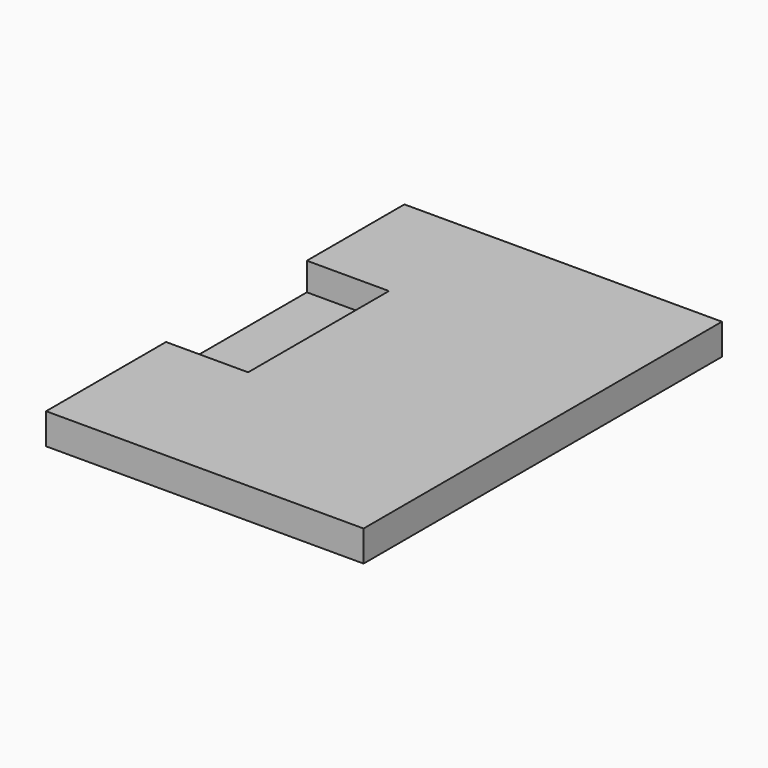
from build123d import *

# Parameters (mm, degrees)
F2_DEPTH = 9.144
F0_W     = 104.3482013047
F0_H     = 147.1950858831
F3_DEPTH = 1.016
F5_DEPTH = 8.128


with BuildPart() as f2:
    # F1 (on face) → F2 (new body)
    with BuildSketch(Plane.XY):
        Polygon((-44.0127886832, 33.2340672612), (-17.0306321234, 33.2340672612), (-17.0306321234, -24.6169902384), (-44.0127886832, -24.6169902384), (-44.0127886832, -73.8890171051), (60.3354126215, -73.8890171051), (60.3354126215, 73.306068778), (-44.0127886832, 73.306068778), align=None)
        Polygon((33.4283486009, -24.867111817), (33.4283486009, 33.2340672612), (59.7827173769, 33.2340672612), (60.2132864296, -24.867111817), align=None, mode=Mode.SUBTRACT)
    extrude(amount=F2_DEPTH)

    # F0 (on Top) + F2_face (on face) → F3 (join)
    with BuildSketch(Plane.XY):
        with Locations((8.1613119692, -0.2914741635)):
            Rectangle(F0_W, F0_H)
    with BuildSketch(Plane(origin=(8.2321469679, -1.4312137142, 9.144), x_dir=(1, 0, 0), z_dir=(0, 0, 1))):
        Polygon((-52.2449356511, 34.6652809755), (-25.2627790912, 34.6652809755), (-25.2627790912, -23.1857765242), (-52.2449356511, -23.1857765242), (-52.2449356511, -72.4578033909), (52.1032656536, -72.4578033909), (52.1032656536, 74.7372824923), (-52.2449356511, 74.7372824923), align=None)
        Polygon((51.9811394618, -23.4358981028), (25.196201633, -23.4358981028), (25.196201633, 34.6652809755), (51.5505704091, 34.6652809755), align=None, mode=Mode.SUBTRACT)
    extrude(amount=-F3_DEPTH)

    # F4 (on face) → F5 (join)
    with BuildSketch(Plane.XY.offset(9.144)):
        Polygon((59.7827173769, 33.2340672612), (33.4283486009, 33.2340672612), (33.4283486009, -24.867111817), (60.2132864296, -24.867111817), align=None)
    extrude(amount=-F5_DEPTH)


solid = f2.part
